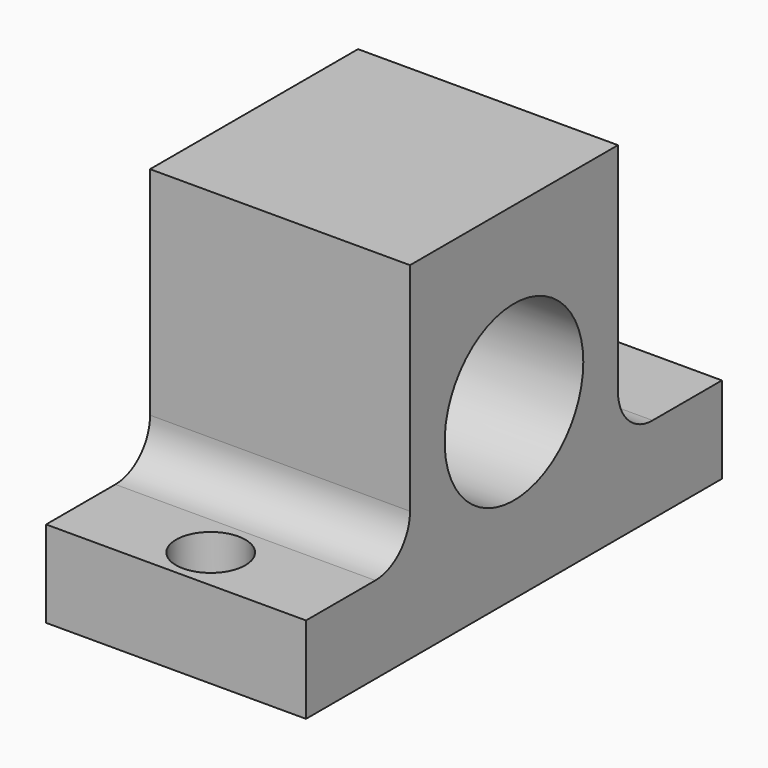
from build123d import *

# Parameters (mm, degrees)
F0_W      = 15
F0_H      = 30
F1_DEPTH  = 20
F2_R      = 5
F3_DEPTH  = 15.001
F5_DEPTH  = 15.001
F7_DEPTH  = 15.001
F8_R      = 2
F9_DEPTH  = 5.001
F10_R     = 2
F11_DEPTH = 5.001


with BuildPart() as f1:
    # F0 (on Top) → F1 (new body)
    with BuildSketch(Plane.XY):
        with Locations((2.2975676474, -10.2801732719)):
            Rectangle(F0_W, F0_H)
    extrude(amount=F1_DEPTH)

    # F2 (on face) → F3 (cut, through all)
    with BuildSketch(Plane.YZ.offset(9.7975676474)):
        with Locations((-10.2801732719, 10)):
            Circle(F2_R)
    extrude(amount=-F3_DEPTH, mode=Mode.SUBTRACT)

    # F4 (on face) → F5 (cut, through all)
    with BuildSketch(Plane(origin=(-5.2024323526, 0, 0), x_dir=(0, -1, 0), z_dir=(-1, 0, 0))):
        with BuildLine():
            Line((20.2801732719, 5), (25.2801732719, 5))
            Line((25.2801732719, 5), (25.2801732719, 20))
            Line((25.2801732719, 20), (17.7801732719, 20))
            Line((17.7801732719, 20), (17.7801732719, 7.5))
            ThreePointArc((17.7801732719, 7.5), (18.5124063189, 5.732233047), (20.2801732719, 5))
        make_face()
    extrude(amount=-F5_DEPTH, mode=Mode.SUBTRACT)

    # F6 (on face) → F7 (cut, through all)
    with BuildSketch(Plane.YZ.offset(9.7975676474)):
        with BuildLine():
            Line((-0.2801732719, 5), (4.7198267281, 5))
            Line((4.7198267281, 5), (4.7198267281, 20))
            Line((4.7198267281, 20), (-2.7801732719, 20))
            Line((-2.7801732719, 20), (-2.7801732719, 7.5))
            ThreePointArc((-2.7801732719, 7.5), (-2.0479402249, 5.732233047), (-0.2801732719, 5))
        make_face()
    extrude(amount=-F7_DEPTH, mode=Mode.SUBTRACT)

    # F8 (on face) → F9 (cut, through all)
    with BuildSketch(Plane.XY.offset(5)):
        with Locations((2.2975676474, 2.2198267281)):
            Circle(F8_R)
    extrude(amount=-F9_DEPTH, mode=Mode.SUBTRACT)

    # F10 (on face) → F11 (cut, through all)
    with BuildSketch(Plane.XY.offset(5)):
        with Locations((2.2975676474, -22.7801732719)):
            Circle(F10_R)
    extrude(amount=-F11_DEPTH, mode=Mode.SUBTRACT)


solid = f1.part
